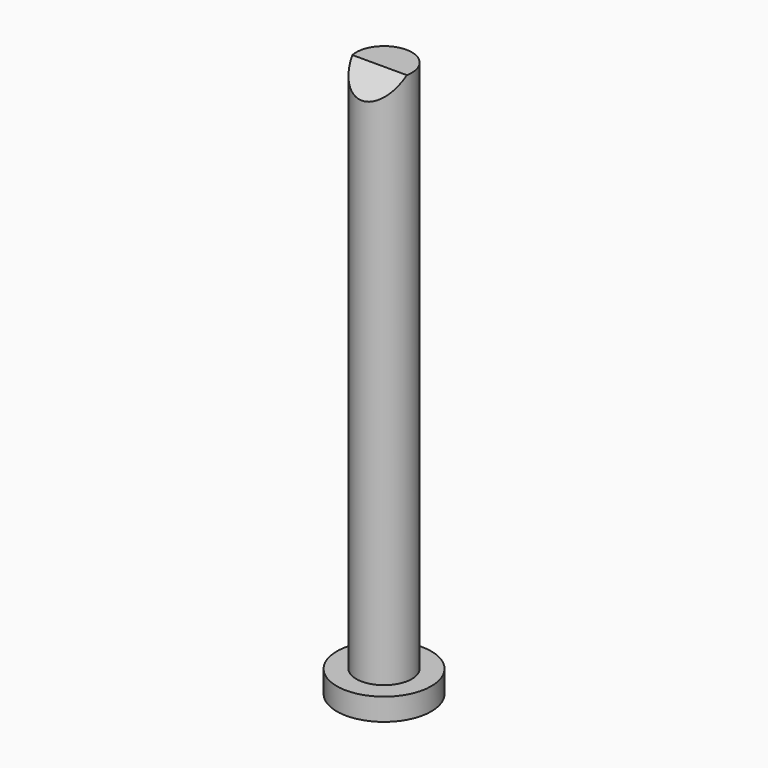
from build123d import *

# Parameters (mm, degrees)
F0_R          = 8.5
F1_DEPTH      = 4
F2_R          = 5
F3_DEPTH      = 100
F5_DEPTH      = 25
F5_DEPTH_BACK = 25


with BuildPart() as f1:
    # F0 (on Top) → F1 (new body)
    with BuildSketch(Plane.XY):
        Circle(F0_R)
    extrude(amount=F1_DEPTH)

    # F2 (on Top) → F3 (join)
    with BuildSketch(Plane.XY):
        Circle(F2_R)
    extrude(amount=F3_DEPTH)

    # F4 (on Right) → F5 (cut, two sides)
    with BuildSketch(Plane.YZ) as f5_sk:
        Polygon((0, 101), (-5, 101), (-5, 96), align=None)
    extrude(amount=F5_DEPTH, mode=Mode.SUBTRACT)
    extrude(f5_sk.sketch, amount=-F5_DEPTH_BACK, mode=Mode.SUBTRACT)


solid = f1.part
